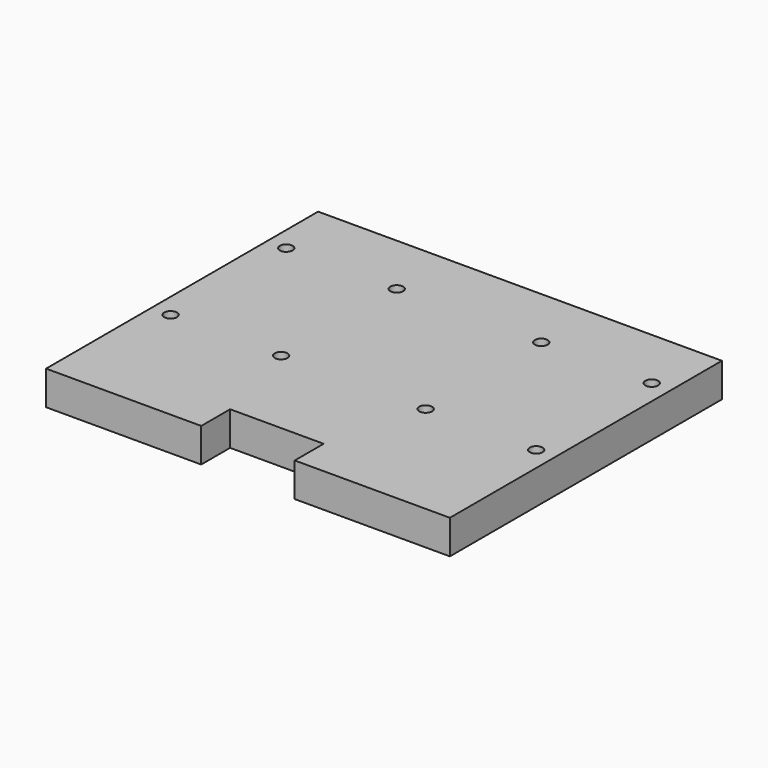
from build123d import *

# Parameters (mm, degrees)
SKETCH_W     = 95
SKETCH_H     = 80
PAD_DEPTH    = 8
SKETCH001_R  = 1.5
SKETCH001_W  = 22
SKETCH001_H  = 8.5
POCKET_DEPTH = 8.001


with BuildPart() as part:
    # Sketch → Pad (new body)
    with BuildSketch(Plane.XY):
        Rectangle(SKETCH_W, SKETCH_H)
    extrude(amount=PAD_DEPTH)

    # Sketch001 (on Face6 of Pad) → Pocket (cut, through all)
    with BuildSketch(Plane.XY.offset(8)):
        with Locations((-43, 25)):
            Circle(SKETCH001_R)
        with Locations((-17, 25)):
            Circle(SKETCH001_R)
        with Locations((-17, -9)):
            Circle(SKETCH001_R)
        with Locations((-43, -9)):
            Circle(SKETCH001_R)
        with Locations((17, 25)):
            Circle(SKETCH001_R)
        with Locations((43, 25)):
            Circle(SKETCH001_R)
        with Locations((43, -9)):
            Circle(SKETCH001_R)
        with Locations((17, -9)):
            Circle(SKETCH001_R)
        with Locations((0, -35.75)):
            Rectangle(SKETCH001_W, SKETCH001_H)
    extrude(amount=-POCKET_DEPTH, mode=Mode.SUBTRACT)


solid = part.part
